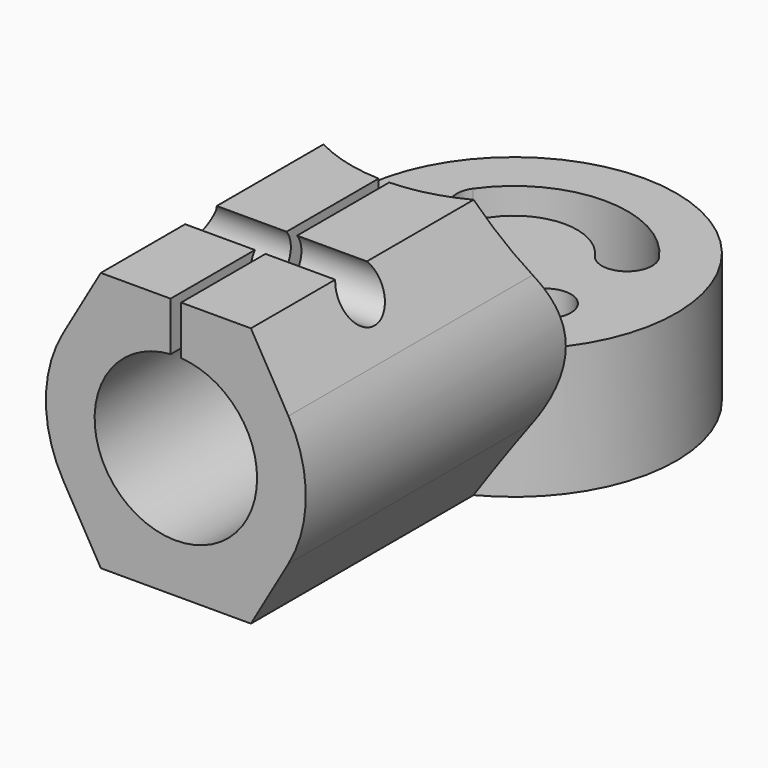
from build123d import *

# Parameters (mm, degrees)
EXTRUDE_DEPTH                  = 20
EXTRUDE_ONTO_SKETCH_ROLL_ANGLE = 90
SKETCH001_R                    = 5
POCKET_DEPTH                   = 14
POCKET001_DEPTH                = 20.001
SKETCH003_R                    = 10
EXTRUDE001_DEPTH               = 8
SKETCH004_R                    = 10
POCKET002_DEPTH                = 8.001
POCKET003_DEPTH                = 8.001
SKETCH006_R                    = 1.55
POCKET004_DEPTH                = 9.676
POCKET004_DEPTH_BACK           = -10.326


with BuildPart() as pocket001:
    # Sketch as drawn → Extrude (new)
    with BuildSketch(Plane.XY):
        with BuildLine():
            Line((-4.618802, 8), (4.618805, 8))
            Line((4.618805, 8), (6.928207, 3.999994))
            ThreePointArc((6.928203, -4), (8, -3e-06), (6.928207, 3.999994))
            Line((4.618802, -8), (6.928203, -4))
            Line((-4.618805, -8), (4.618802, -8))
            Line((-6.928208, -3.999992), (-4.618805, -8))
            ThreePointArc((-6.928205, 3.999998), (-8, 3e-06), (-6.928208, -3.999992))
            Line((-4.618802, 8), (-6.928205, 3.999998))
        make_face()
    extrude(amount=-EXTRUDE_DEPTH)


with BuildPart() as pocket001_1:
    # Extrude onto Sketch roll: moved
    add(pocket001.part.rotate(Axis((0, 0, 0), (1, 0, 0)), EXTRUDE_ONTO_SKETCH_ROLL_ANGLE))


with BuildPart() as pocket001_2:
    # Extrude onto Sketch placement: moved
    add(pocket001_1.part)

    # Sketch001 → Pocket (cut)
    with BuildSketch(Plane.XZ):
        Circle(SKETCH001_R)
    extrude(amount=-POCKET_DEPTH, mode=Mode.SUBTRACT)

    # Sketch002 → Pocket001 (cut, through all)
    with BuildSketch(Plane(origin=(0, 20, 0), x_dir=(-1, 0, 0), z_dir=(0, 1, 0))):
        with BuildLine():
            ThreePointArc((-0.325, 1.212917), (0, 0), (0.325, 1.212917))
            Line((0.325, 8), (0.325, 1.212917))
            Line((-0.325, 8), (0.325, 8))
            Line((-0.325, 8), (-0.325, 1.212917))
        make_face()
    extrude(amount=-POCKET001_DEPTH, mode=Mode.SUBTRACT)


with BuildPart() as pocket004:
    # Sketch003 → Extrude001 (new body)
    with BuildSketch(Plane(origin=(0, 0, -8), x_dir=(1, 0, 0), z_dir=(0, 0, -1))):
        with Locations((0, -26)):
            Circle(SKETCH003_R)
    extrude(amount=-EXTRUDE001_DEPTH)

    # Fusion: union Pocket001
    add(pocket001_2.part)

    # Sketch004 → Pocket002 (cut, through all)
    with BuildSketch(Plane.XY):
        with Locations((0, 26)):
            Circle(SKETCH004_R)
    extrude(amount=POCKET002_DEPTH, mode=Mode.SUBTRACT)

    # Sketch005 → Pocket003 (cut, through all)
    with BuildSketch(Plane.XY):
        with BuildLine():
            ThreePointArc((3.194693, 28.236948), (0, 29.9), (-3.194693, 28.236948))
            ThreePointArc((-5.734064, 30.015035), (-5.353422, 27.856306), (-3.194693, 28.236948))
            ThreePointArc((5.734064, 30.015035), (0, 33), (-5.734064, 30.015035))
            ThreePointArc((3.194693, 28.236948), (5.353422, 27.856306), (5.734064, 30.015035))
        make_face()
        with BuildLine():
            ThreePointArc((-3.194693, 23.763052), (0, 22.1), (3.194693, 23.763052))
            ThreePointArc((5.734064, 21.984965), (5.353422, 24.143694), (3.194693, 23.763052))
            ThreePointArc((-5.734064, 21.984965), (0, 19), (5.734064, 21.984965))
            ThreePointArc((-3.194693, 23.763052), (-5.353422, 24.143694), (-5.734064, 21.984965))
        make_face()
    extrude(amount=-POCKET003_DEPTH, mode=Mode.SUBTRACT)

    # Sketch006 → Pocket004 (cut, two sides)
    with BuildSketch(Plane.YZ.offset(-0.325)) as pocket004_sk:
        with Locations((7.70394, 7.039426)):
            Circle(SKETCH006_R)
    extrude(amount=-POCKET004_DEPTH, mode=Mode.SUBTRACT)
    extrude(pocket004_sk.sketch, amount=-POCKET004_DEPTH_BACK, mode=Mode.SUBTRACT)


solid = pocket004.part
